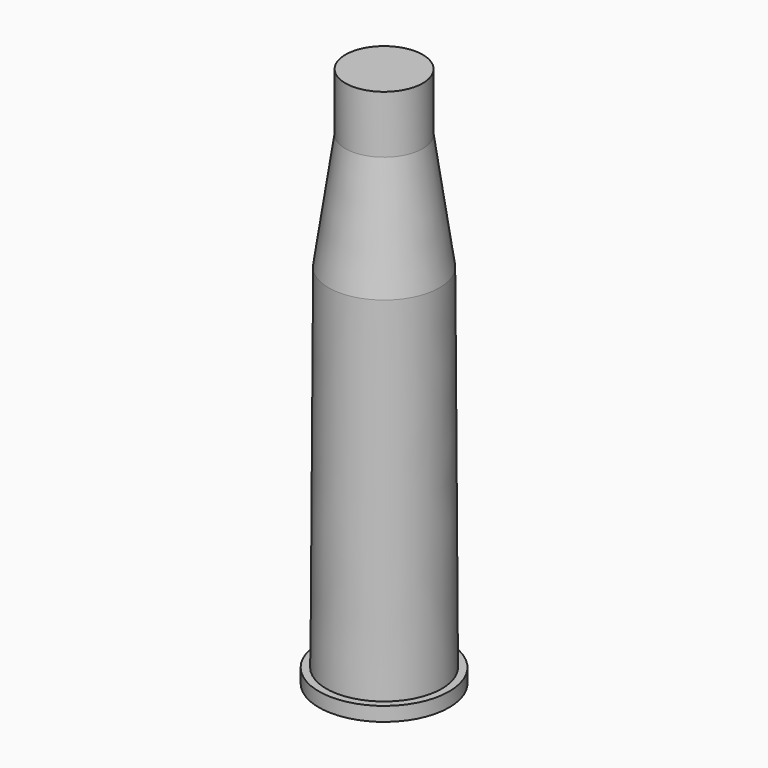
from build123d import *

# Parameters (mm, degrees)
F0_R      = 7.0358
F1_DEPTH  = 1.524
F2_R      = 6.2357
F4_R      = 6.0071
F5_FACE_R = 6.0071
F7_R      = 4.1783
F9_DEPTH  = 6.223


with BuildPart() as f1:
    # F0 (on Top) → F1 (new body)
    with BuildSketch(Plane.XY):
        Circle(F0_R)
    extrude(amount=F1_DEPTH)

    # F2 (on face) → F5 section 0
    with BuildSketch(Plane.XY.offset(1.524)):
        Circle(F2_R)
    # F4 (on offset) → F5 section 1
    with BuildSketch(Plane.XY.offset(39.5732)):
        Circle(F4_R)
    loft()

    # F5_face (on face) → F8 section 0
    with BuildSketch(Plane.XY.offset(39.5732)):
        Circle(F5_FACE_R)
    # F7 (on offset) → F8 section 1
    with BuildSketch(Plane.XY.offset(52.197)):
        Circle(F7_R)
    loft()

    # F9 (add): a face of the model
    f9_faces = [f1.faces().sort_by_distance(p)[0] for p in [
        (0, 0, 52.197),
    ]]
    extrude(f9_faces, amount=F9_DEPTH)


solid = f1.part
